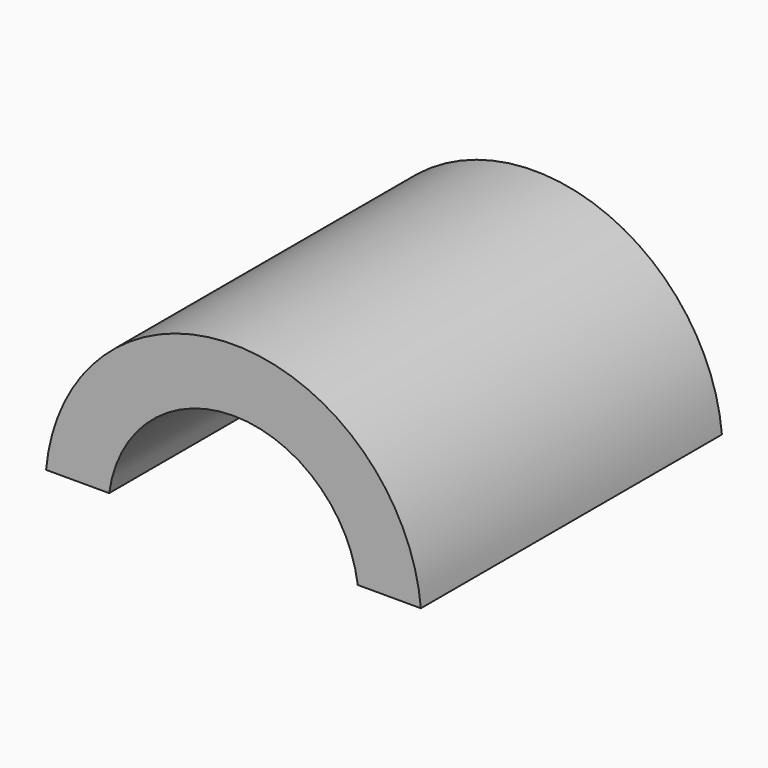
from build123d import *

# Parameters (mm, degrees)
F1_DEPTH = 60


with BuildPart() as f1:
    # F0 (on Front) → F1 (new body)
    with BuildSketch(Plane.XZ):
        with BuildLine():
            ThreePointArc((-19.819231, 0), (0, 17.317074), (19.819231, 0))
            Line((19.819231, 0), (29.879791, 0))
            ThreePointArc((29.879791, 0), (0, 27.317074), (-29.879791, 0))
            Line((-29.879791, 0), (-19.819231, 0))
        make_face()
    extrude(amount=-F1_DEPTH)


solid = f1.part
